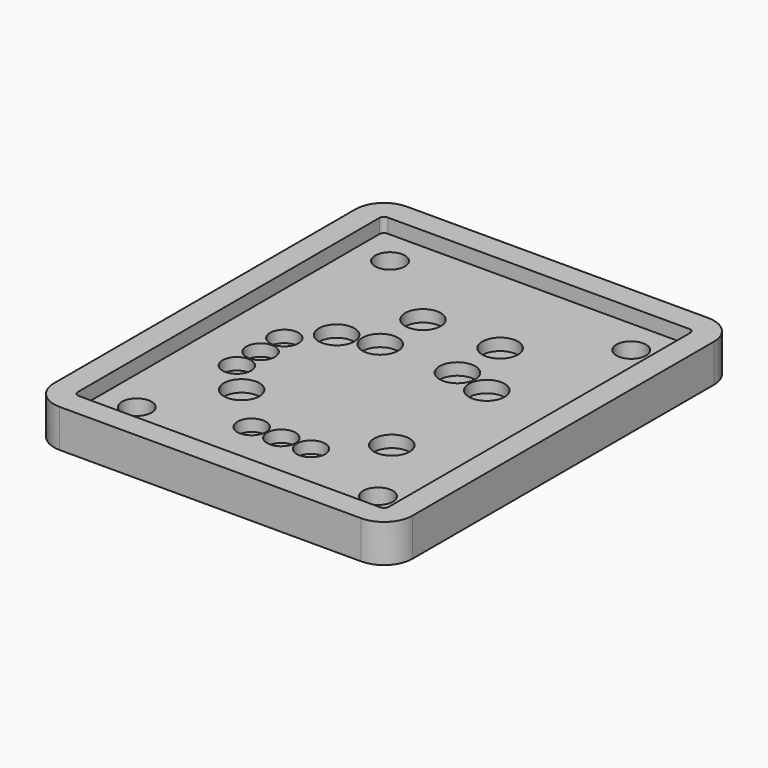
from build123d import *

# Parameters (mm, degrees)
PAD_DEPTH       = 3.2
THICKNESS001_T  = -2
SKETCH010_R     = 1.25
POCKET002_DEPTH = 2.001
SKETCH011_R     = 1.5
SKETCH011_R_2   = 1.2
POCKET003_DEPTH = 1


with BuildPart() as part:
    # Sketch009 → Pad (new body)
    with BuildSketch(Plane.XY):
        with BuildLine():
            Line((-2.4, 31.749999), (-2.4, 0))
            ThreePointArc((-2.4, 0), (-1.697056, -1.697056), (0, -2.4))
            Line((0, -2.4), (25.4, -2.4))
            ThreePointArc((25.4, -2.4), (27.097056, -1.697057), (27.8, -1e-06))
            Line((27.8, -1e-06), (27.8, 31.75))
            ThreePointArc((27.8, 31.75), (27.097057, 33.447056), (25.400001, 34.15))
            Line((25.400001, 34.15), (1e-06, 34.15))
            ThreePointArc((1e-06, 34.15), (-1.697056, 33.447056), (-2.4, 31.749999))
        make_face()
    extrude(amount=PAD_DEPTH)

    # Thickness001
    thickness001_openings = [part.faces().sort_by_distance(p)[0] for p in [
        (12.7, 15.875, 3.2),
    ]]
    offset(amount=THICKNESS001_T, openings=thickness001_openings)

    # Sketch010 (on Face19 of Thickness001) → Pocket002 (cut, through all)
    with BuildSketch(Plane.XY.offset(2)):
        with Locations((2.54, 29.21)):
            Circle(SKETCH010_R)
        with Locations((22.86, 29.21)):
            Circle(SKETCH010_R)
        with Locations((22.86, 2.54)):
            Circle(SKETCH010_R)
        with Locations((2.54, 2.54)):
            Circle(SKETCH010_R)
    extrude(amount=-POCKET002_DEPTH, mode=Mode.SUBTRACT)

    # Sketch011 (on Face23 of Pocket002) → Pocket003 (cut)
    with BuildSketch(Plane.XY.offset(2)):
        with Locations((9.45, 24.043)):
            Circle(SKETCH011_R)
        with Locations((15.95, 24.043)):
            Circle(SKETCH011_R)
        with Locations((15.95, 19.543)):
            Circle(SKETCH011_R)
        with Locations((19.025, 18.793)):
            Circle(SKETCH011_R)
        with Locations((19.025, 8.793)):
            Circle(SKETCH011_R)
        with Locations((9.45, 19.543)):
            Circle(SKETCH011_R)
        with Locations((6.375, 18.793)):
            Circle(SKETCH011_R)
        with Locations((6.375, 8.793)):
            Circle(SKETCH011_R)
        with Locations((3.97, 16.293)):
            Circle(SKETCH011_R_2)
        with Locations((3.97, 13.793)):
            Circle(SKETCH011_R_2)
        with Locations((3.97, 11.293)):
            Circle(SKETCH011_R_2)
        with Locations((10.2, 5.063)):
            Circle(SKETCH011_R_2)
        with Locations((12.7, 5.063)):
            Circle(SKETCH011_R_2)
        with Locations((15.2, 5.063)):
            Circle(SKETCH011_R_2)
    extrude(amount=-POCKET003_DEPTH, mode=Mode.SUBTRACT)


with BuildPart() as part_1:
    # Body placement: moved
    add(part.part.moved(Location((0, 0, -3.6))))


solid = part_1.part
